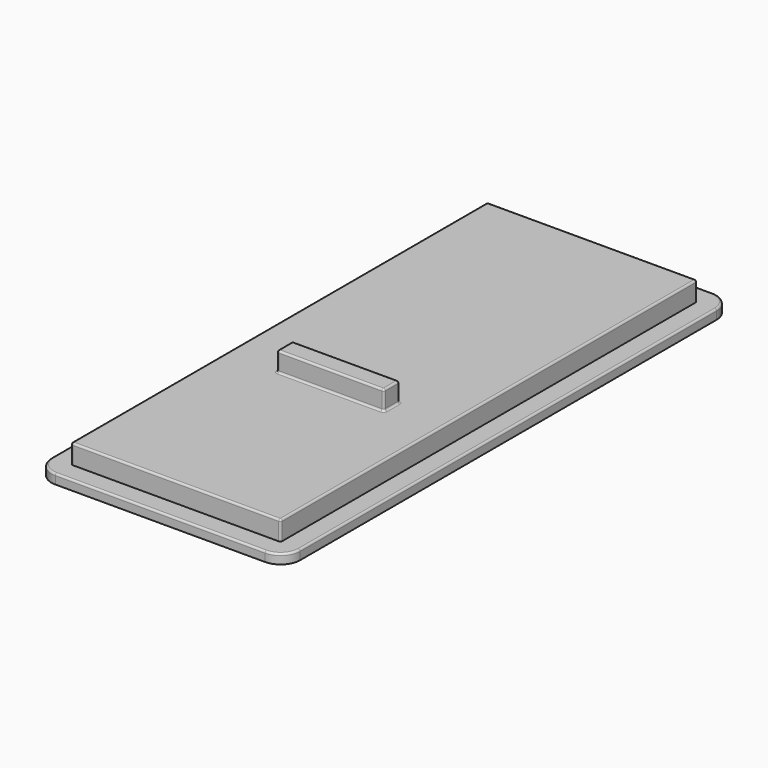
from build123d import *

# Parameters (mm, degrees)
F0_W     = 25.6
F0_H     = 57.6
F0_W_2   = 21.6
F0_H_2   = 53.6
F1_DEPTH = 1
F0_W_3   = 11
F0_H_3   = 2
F2_DEPTH = 3
F3_DEPTH = 5
F4_R     = 2
F5_R     = 0.2


with BuildPart() as f1:
    # F0 (on Top) → F1 (new body)
    with BuildSketch(Plane.XY):
        with Locations((0, -1.2393394568)):
            Rectangle(F0_W, F0_H)
        with Locations((0, -1.2393394568)):
            Rectangle(F0_W_2, F0_H_2, mode=Mode.SUBTRACT)
    extrude(amount=F1_DEPTH)

    # F0 (on Top) → F2 (join)
    with BuildSketch(Plane.XY):
        with Locations((0, -1.2393394568)):
            Rectangle(F0_W_2, F0_H_2)
        with Locations((0, -7.1393394568)):
            Rectangle(F0_W_3, F0_H_3, mode=Mode.SUBTRACT)
    extrude(amount=F2_DEPTH)

    # F0 (on Top) → F3 (join)
    with BuildSketch(Plane.XY):
        with Locations((0, -7.1393394568)):
            Rectangle(F0_W_3, F0_H_3)
    extrude(amount=F3_DEPTH)

    # F4
    f4_edges = [f1.edges().sort_by_distance(p)[0] for p in [
        (-12.8, -30.039339, 0.5),
        (12.8, -30.039339, 0.5),
        (12.8, 27.560661, 0.5),
        (-12.8, 27.560661, 0.5),
    ]]
    fillet(f4_edges, radius=F4_R)

    # F5
    f5_edges = [f1.edges().sort_by_distance(p)[0] for p in [
        (12.8, -1.239339, 1),
        (0, -28.039339, 3),
        (10.8, -1.239339, 3),
        (0, 25.560661, 3),
        (-10.8, -1.239339, 3),
        (-5.5, -7.139339, 3),
        (0, -6.139339, 3),
        (5.5, -7.139339, 3),
        (0, -8.139339, 3),
        (10.8, 25.560661, 2),
        (-10.8, 25.560661, 2),
        (-10.8, -28.039339, 2),
        (10.8, -28.039339, 2),
        (0, -6.139339, 5),
        (-5.5, -7.139339, 5),
        (0, -8.139339, 5),
        (5.5, -7.139339, 5),
        (5.5, -8.139339, 4),
        (-5.5, -8.139339, 4),
        (5.5, -6.139339, 4),
        (-5.5, -6.139339, 4),
    ]]
    fillet(f5_edges, radius=F5_R)


solid = f1.part
